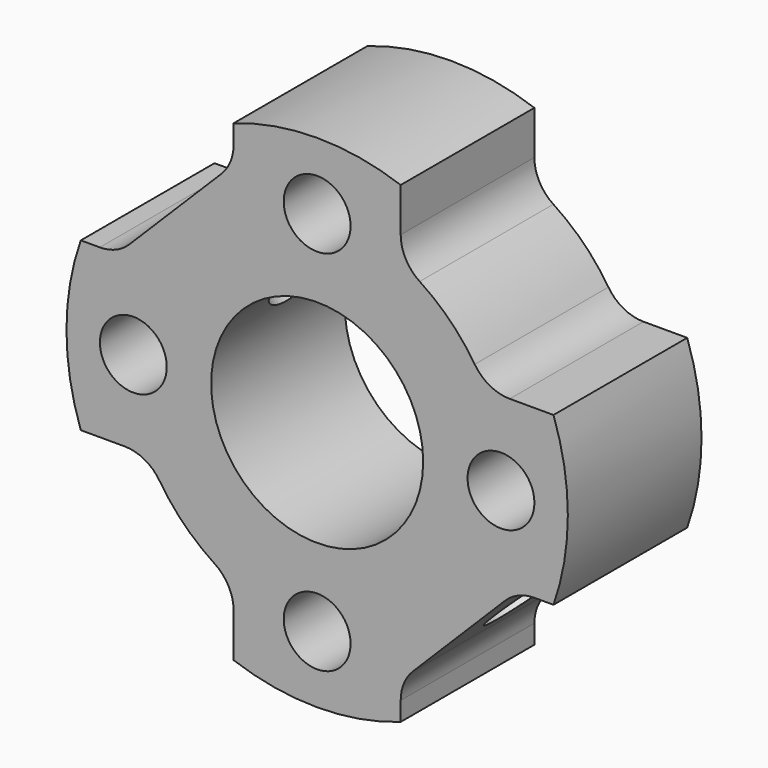
from build123d import *

# Parameters (mm, degrees)
F0_R      = 22.5
F0_R_2    = 12.69
F1_DEPTH  = 20
F3_DEPTH  = 20
F5_R      = 4
F6_DEPTH  = 52.7
F8_DEPTH  = 20
F9_R      = 5
F10_R     = 4.75
F11_DEPTH = 55.8


with BuildPart() as f1:
    # F0 (on Front) → F1 (new body)
    with BuildSketch(Plane.XZ):
        Circle(F0_R)
        Circle(F0_R_2, mode=Mode.SUBTRACT)
    extrude(amount=F1_DEPTH)

    # F2 (on Front) → F3 (join)
    with BuildSketch(Plane.XZ):
        with BuildLine():
            Line((10, 14.3614066163), (10, 28.2842712475))
            ThreePointArc((10, 28.2842712475), (0, 30), (-10, 28.2842712475))
            Line((-10, 28.2842712475), (-10, 14.3614066163))
            ThreePointArc((-10, 14.3614066163), (0, 17.5), (10, 14.3614066163))
        make_face()
        with BuildLine():
            Line((-14.3614066163, 10), (-28.2842712475, 10))
            ThreePointArc((-28.2842712475, 10), (-30, 0), (-28.2842712475, -10))
            Line((-28.2842712475, -10), (-14.3614066163, -10))
            ThreePointArc((-14.3614066163, -10), (-17.5, 0), (-14.3614066163, 10))
        make_face()
        with BuildLine():
            ThreePointArc((28.2842712475, -10), (30, 0), (28.2842712475, 10))
            Line((28.2842712475, 10), (14.3614066163, 10))
            ThreePointArc((14.3614066163, 10), (17.5, 0), (14.3614066163, -10))
            Line((14.3614066163, -10), (28.2842712475, -10))
        make_face()
        with BuildLine():
            Line((-10, -14.3614066163), (-10, -28.2842712475))
            ThreePointArc((-10, -28.2842712475), (0, -30), (10, -28.2842712475))
            Line((10, -28.2842712475), (10, -14.3614066163))
            ThreePointArc((10, -14.3614066163), (0, -17.5), (-10, -14.3614066163))
        make_face()
    extrude(amount=F3_DEPTH)

    # F5 (on Front) → F6 (cut)
    with BuildSketch(Plane.XZ):
        with Locations((0, 22)):
            Circle(F5_R)
        with Locations((0, -22)):
            Circle(F5_R)
        with Locations((22, 0)):
            Circle(F5_R)
        with Locations((-22, 0)):
            Circle(F5_R)
    extrude(amount=F6_DEPTH, mode=Mode.SUBTRACT)

    # F7 (on Front) → F8 (join)
    with BuildSketch(Plane.XZ):
        with BuildLine():
            Line((-7, 26.941125497), (-26.941125497, 7))
            Line((-26.941125497, 7), (-13.2664991614, 7))
            ThreePointArc((-13.2664991614, 7), (-10.6066017178, 10.6066017178), (-7, 13.2664991614))
            Line((-7, 13.2664991614), (-7, 26.941125497))
        make_face()
        with BuildLine():
            Line((26.941125497, -7), (13.2664991614, -7))
            ThreePointArc((13.2664991614, -7), (10.6066017178, -10.6066017178), (7, -13.2664991614))
            Line((7, -13.2664991614), (7, -26.941125497))
            Line((7, -26.941125497), (26.941125497, -7))
        make_face()
    extrude(amount=F8_DEPTH)

    # F9
    f9_edges = [f1.edges().sort_by_distance(p)[0] for p in [
        (10, -10, 20.155644),
        (20.155644, -10, 10),
        (-10, -10, -20.155644),
        (-20.155644, -10, -10),
        (-10, -10, 23.941125),
        (-23.941125, -10, 10),
        (23.941125, -10, -10),
        (10, -10, -23.941125),
    ]]
    fillet(f9_edges, radius=F9_R)

    # F10 (on face) → F11 (cut, symmetric)
    with BuildSketch(Plane(origin=(-16.9705627485, 0, 16.9705627485), x_dir=(0, -1, 0), z_dir=(-0.7071067812, 0, 0.7071067812))):
        with Locations((9.9991243333, 0)):
            Circle(F10_R)
    extrude(amount=F11_DEPTH, both=True, mode=Mode.SUBTRACT)


solid = f1.part
